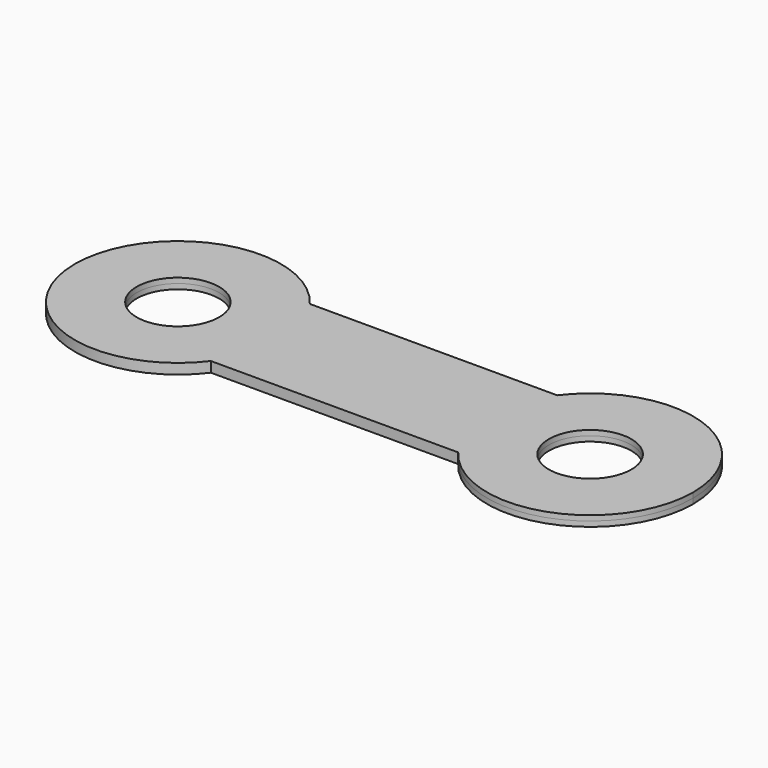
from build123d import *

# Parameters (mm, degrees)
F0_R     = 2
F1_DEPTH = 0.25


with BuildPart() as f1:
    # F0 (on Top) → F1 (new body, symmetric)
    with BuildSketch(Plane.XY):
        with BuildLine():
            ThreePointArc((-6, -3), (-5.2565835097, -1.5811388301), (-5, 0))
            ThreePointArc((-5, 0), (-5.2565835097, 1.5811388301), (-6, 3))
            ThreePointArc((-6, 3), (-15, 0), (-6, -3))
        make_face()
        with Locations((-10, 0)):
            Circle(F0_R, mode=Mode.SUBTRACT)
        with BuildLine():
            ThreePointArc((15, 0), (11.5811388301, 4.7434164903), (6, 3))
            ThreePointArc((6, 3), (5, 0), (6, -3))
            ThreePointArc((6, -3), (11.5811388301, -4.7434164903), (15, 0))
        make_face()
        with Locations((10, 0)):
            Circle(F0_R, mode=Mode.SUBTRACT)
        with BuildLine():
            ThreePointArc((-6, 3), (-5.2565835097, 1.5811388301), (-5, 0))
            ThreePointArc((-5, 0), (-5.2565835097, -1.5811388301), (-6, -3))
            Line((-6, -3), (6, -3))
            ThreePointArc((6, -3), (5, 0), (6, 3))
            Line((6, 3), (-6, 3))
        make_face()
    extrude(amount=F1_DEPTH, both=True)


solid = f1.part
